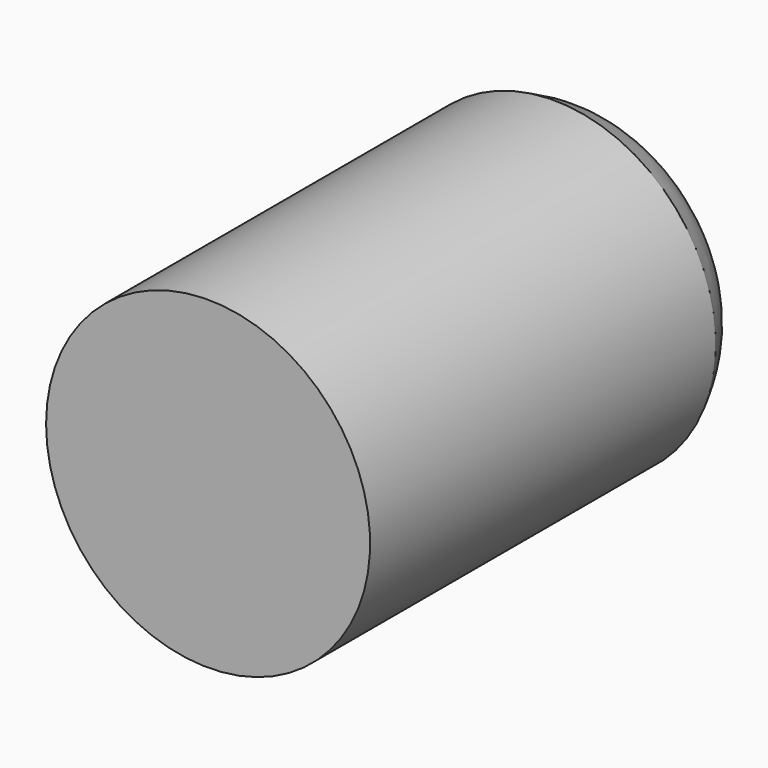
from build123d import *


with BuildPart() as f2:
    # F0 (on Top) → F2 (revolve)
    with BuildSketch(Plane.XY):
        with BuildLine():
            add(Edge.make_bspline(
                [(-38.1, 39.5338508313), (-36.6180778054, 42.5391201972), (-33.6399613637, 48.5786019887), (-24.3973083767, 53.0518938487), (-14.5079778701, 56.0638652754), (-7.5031304814, 57.2452287807), (-8.4490862897, 62.6095818203), (-8.0429797173, 65.3657316722), (-7.8399265185, 66.7438060045)],
                knots=[0, 0, 0, 0, 0.1936345345, 0.3891339187, 0.5935115949, 0.7425880004, 0.8712940556, 1, 1, 1, 1], degree=3))
            Line((-38.1, 39.5338508313), (-38.1, -62.0661491687))
            Line((-38.1, -62.0661491687), (0, -62.0661491687))
            Line((0, -62.0661491687), (0, 66.7438060045))
            Line((0, 66.7438060045), (-7.8399265185, 66.7438060045))
        make_face()
    revolve(axis=Axis((0, 0.7165074348, 0), (0, -1, 0)))


solid = f2.part
